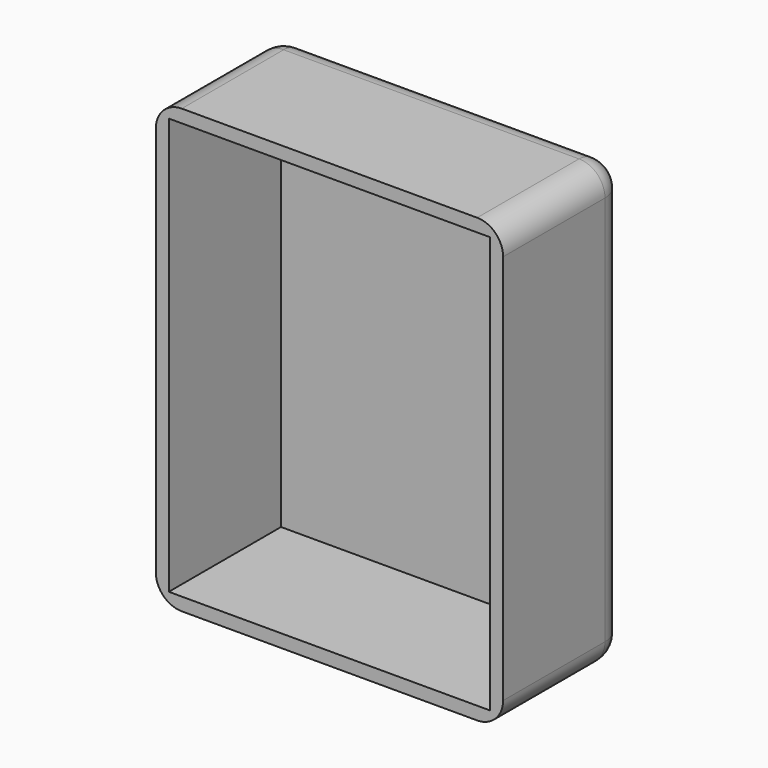
from build123d import *

# Parameters (mm, degrees)
F0_W     = 67.97842
F0_H     = 86.627372
F1_DEPTH = 30
F2_T     = -2.54
F3_R     = 5.08


with BuildPart() as f1:
    # F0 (on Front) → F1 (new body)
    with BuildSketch(Plane.XZ):
        Rectangle(F0_W, F0_H)
    extrude(amount=F1_DEPTH)

    # F2
    f2_openings = [f1.faces().sort_by_distance(p)[0] for p in [
        (0, -30, 0),
    ]]
    offset(amount=F2_T, openings=f2_openings)

    # F3
    f3_edges = [f1.edges().sort_by_distance(p)[0] for p in [
        (-33.98921, -15, 43.313686),
        (-33.98921, 0, 0),
        (33.98921, -15, 43.313686),
        (0, 0, 43.313686),
        (33.98921, 0, 0),
        (0, 0, -43.313686),
        (33.98921, -15, -43.313686),
        (-33.98921, -15, -43.313686),
    ]]
    fillet(f3_edges, radius=F3_R)


solid = f1.part
